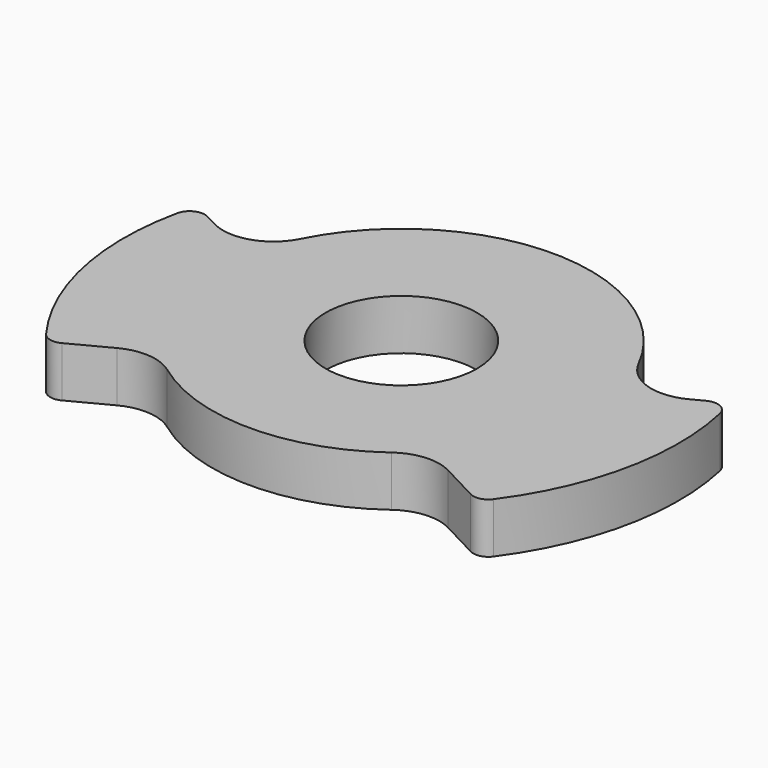
from build123d import *

# Parameters (mm, degrees)
F0_R     = 1.5
F1_DEPTH = 1


with BuildPart() as f1:
    # F0 (on Top) → F1 (new body)
    with BuildSketch(Plane.XY):
        with BuildLine():
            ThreePointArc((14.316125, 33.878389), (14.049917, 33.884634), (13.883606, 33.676676))
            ThreePointArc((13.883606, 33.676676), (13.877587, 31.360626), (14.82553, 29.247447))
            ThreePointArc((14.82553, 29.247447), (14.999791, 29.1328), (15.206672, 29.159473))
            Line((15.206672, 29.159473), (15.977662, 29.564092))
            ThreePointArc((15.977662, 29.564092), (16.517793, 29.675774), (17.034976, 29.484108))
            ThreePointArc((17.034976, 29.484108), (19.257285, 28.754678), (21.479594, 29.484108))
            ThreePointArc((21.479594, 29.484108), (21.996777, 29.675774), (22.536907, 29.564092))
            Line((22.536907, 29.564092), (23.307898, 29.159473))
            ThreePointArc((23.307898, 29.159473), (23.514778, 29.1328), (23.689039, 29.247447))
            ThreePointArc((23.689039, 29.247447), (24.636982, 31.360626), (24.630963, 33.676676))
            ThreePointArc((24.630963, 33.676676), (24.464653, 33.884634), (24.198444, 33.878389))
            Line((24.198444, 33.878389), (23.964436, 33.755581))
            ThreePointArc((23.964436, 33.755581), (23.194202, 33.68887), (22.60659, 34.191288))
            ThreePointArc((22.60659, 34.191288), (19.257285, 36.254678), (15.907979, 34.191288))
            ThreePointArc((15.907979, 34.191288), (15.320368, 33.68887), (14.550133, 33.755581))
            Line((14.550133, 33.755581), (14.316125, 33.878389))
        make_face()
        with Locations((19.257285, 32.504678)):
            Circle(F0_R, mode=Mode.SUBTRACT)
    extrude(amount=F1_DEPTH)


solid = f1.part
